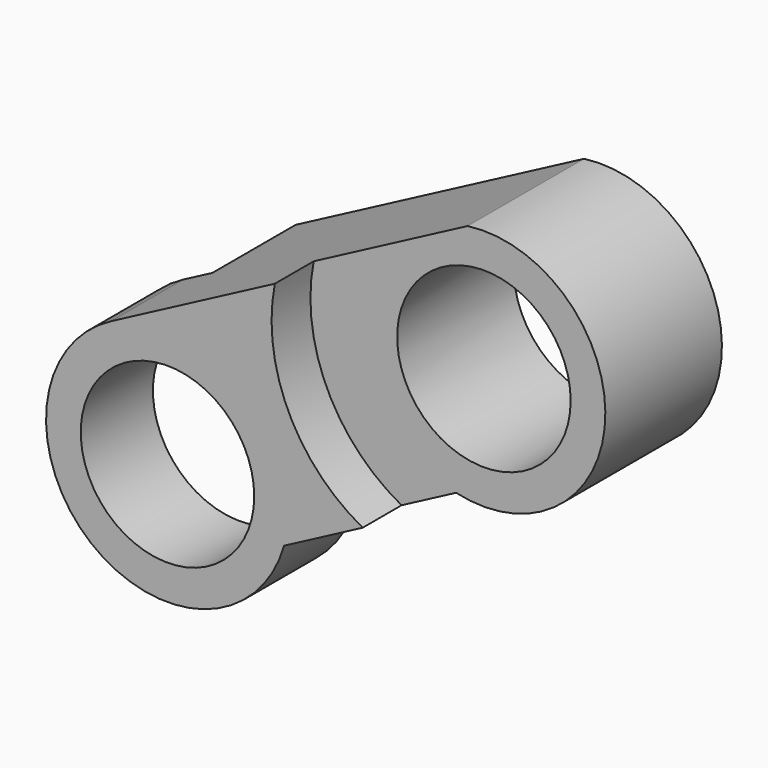
from build123d import *

# Parameters (mm, degrees)
SKETCH011_R       = 2.5
PAD009_DEPTH      = 5.6
CYLINDER006_R     = 4
CYLINDER006_DEPTH = 8
CYLINDER007_R     = 5
CYLINDER007_DEPTH = 10


with BuildPart() as part:
    # Sketch011 → Pad009 (new body)
    with BuildSketch(Plane.XZ.offset(3.2)):
        with BuildLine():
            ThreePointArc((-0.801584, 57.426821), (3.495987, 60.666233), (-0.47207, 64.301812))
            Line((-9.631324, 59.476576), (-0.47207, 64.301812))
            ThreePointArc((-9.631324, 59.476576), (-10.211746, 53.667403), (-4.638391, 55.405532))
            Line((-4.638391, 55.405532), (-0.801584, 57.426821))
        make_face()
        with Locations((-8, 56.38)):
            Circle(SKETCH011_R, mode=Mode.SUBTRACT)
        with Locations((0, 60.833794)):
            Circle(SKETCH011_R, mode=Mode.SUBTRACT)
    extrude(amount=PAD009_DEPTH)

    # Cylinder006 → Cylinder006 (cut)
    with BuildSketch(Plane(origin=(-8, 1.8, 56), x_dir=(1, 0, 0), z_dir=(0, -1, 0))):
        Circle(CYLINDER006_R)
    extrude(amount=CYLINDER006_DEPTH, mode=Mode.SUBTRACT)

    # Cylinder007 → Cylinder007 (cut)
    with BuildSketch(Plane(origin=(0, -7.4, 61), x_dir=(1, 0, 0), z_dir=(0, -1, 0))):
        Circle(CYLINDER007_R)
    extrude(amount=CYLINDER007_DEPTH, mode=Mode.SUBTRACT)


solid = part.part
